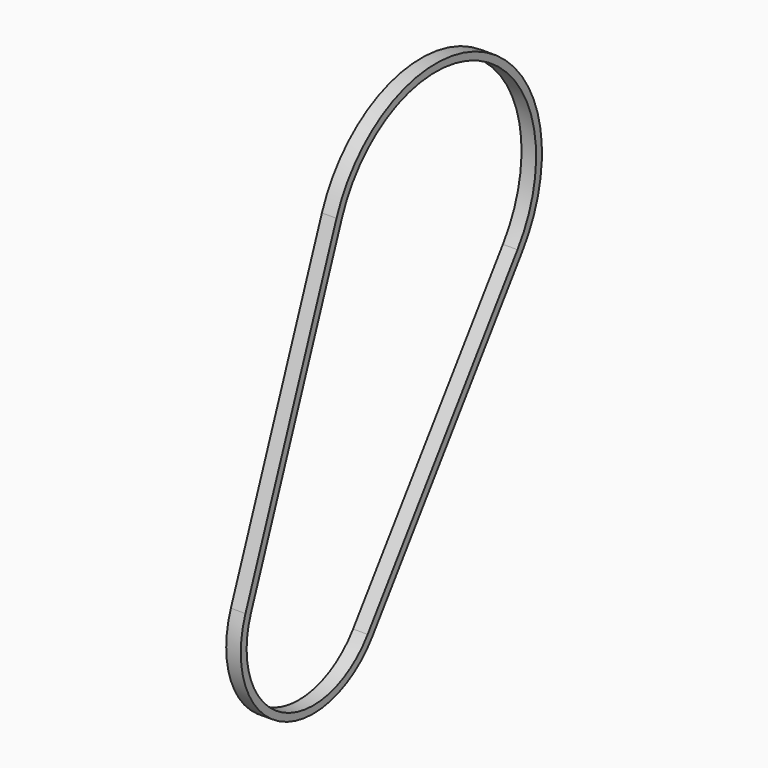
from build123d import *

# Parameters (mm, degrees)
F1_DEPTH = 6.35


with BuildPart() as f1:
    # F0 (on Right) → F1 (new body, symmetric)
    with BuildSketch(Plane.YZ):
        with BuildLine():
            ThreePointArc((227.437395, 182.82425), (187.752017, 351.900923), (25.21449, 290.717568))
            Line((25.21449, 290.717568), (-73.912404, 27.874874))
            ThreePointArc((-73.912404, 27.874874), (-37.184675, -69.694705), (64.310285, -45.871988))
            Line((64.310285, -45.871988), (227.437395, 182.82425))
        make_face()
        with BuildLine():
            ThreePointArc((59.140648, -42.184529), (-34.195553, -64.092237), (-67.970892, 25.634128))
            Line((-67.970892, 25.634128), (31.156001, 288.476823))
            ThreePointArc((31.156001, 288.476823), (184.762895, 346.298454), (222.267758, 186.511709))
            Line((222.267758, 186.511709), (59.140648, -42.184529))
        make_face(mode=Mode.SUBTRACT)
    extrude(amount=F1_DEPTH, both=True)


solid = f1.part
